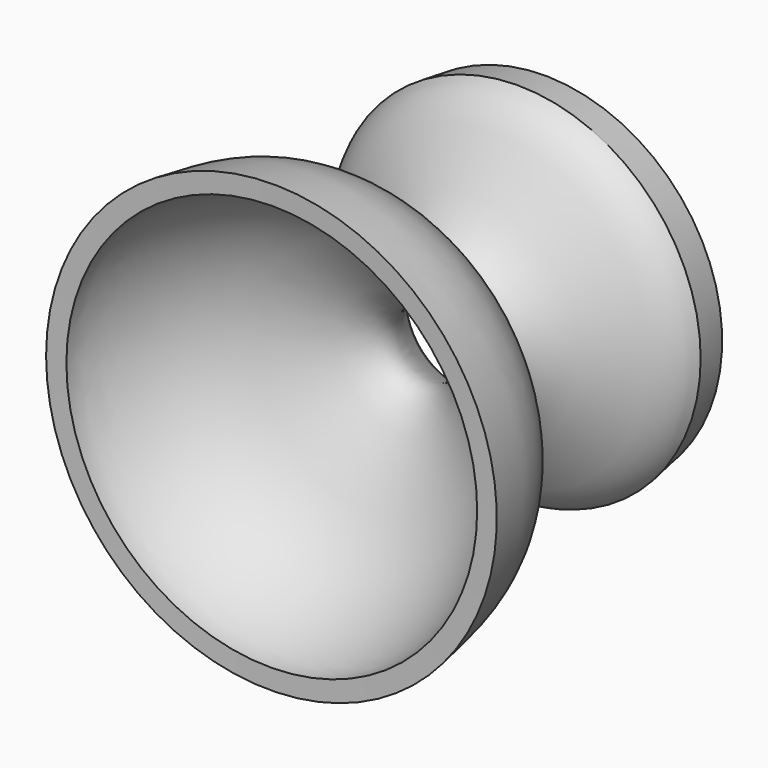
from build123d import *

# Parameters (mm, degrees)
F3_DEPTH      = 1
F3_DEPTH_BACK = 1


with BuildPart() as f1:
    # F0 (on Top) → F1 (revolve)
    with BuildSketch(Plane.XY):
        with BuildLine():
            Line((-28.2061389536, 13.0583277941), (-29.2061389536, 13.0583277941))
            Line((-29.2061389536, 13.0583277941), (-29.2061389536, 17.0583277941))
            Line((-29.2061389536, 17.0583277941), (-30.0259348005, 17.0583277941))
            Line((-30.0259348005, 17.0583277941), (-30.8159273118, 11.360803619))
            add(Edge.make_bspline(
                [(-30.8159273118, 11.360803619), (-30.3810533386, 10.1058438103), (-27.9059937695, 6.2639666949), (-16.1282197913, 1.0842383083), (-6.9000593404, -9.5095705718), (-35.9031692429, -21.0708061653), (-36.1315833958, -36.0233547762), (-37.0348617435, -41.0005152225)],
                knots=[0, 0, 0, 0, 0.1249772384, 0.3270539328, 0.4900317459, 0.7643770426, 1, 1, 1, 1], degree=3))
            Line((-37.0348617435, -41.0005152225), (-33.710875775, -40.8898448526))
            add(Edge.make_bspline(
                [(-9.2624910176, 0), (-8.1220865055, -1.9608888272), (0.1921393665, -11.3884353454), (-27.7795187486, -19.8839077874), (-33.8181633857, -37.6268399903), (-33.710875775, -40.8898448526)],
                knots=[0, 0, 0, 0, 0.2464721737, 0.6419219639, 1, 1, 1, 1], degree=3))
            add(Edge.make_bspline(
                [(-26.5814773738, 11.7608280852), (-25.2828707379, 7.5503954826), (-14.4364759326, 6.8059060723), (-9.2624910176, 0)],
                knots=[0, 0, 0, 0, 20.9347645236, 20.9347645236, 20.9347645236, 20.9347645236], degree=3))
            Line((-26.5814773738, 11.7608280852), (-27.8504227383, 17.0583277941))
            Line((-27.8504227383, 17.0583277941), (-28.2061389536, 17.0583277941))
            Line((-28.2061389536, 17.0583277941), (-28.2061389536, 13.0583277941))
        make_face()
    revolve(axis=Axis((-0.1030694768, 8.529163897, 0), (0.0120834765, -0.9999269921, 0)))

    # F2 (on Top) → F3 (join, two sides)
    with BuildSketch(Plane.XY) as f3_sk:
        Polygon((-14.7176125178, 0), (-27.740644291, 8.0033121631), (-27.740644291, -21.6357558966), (-9.0885590762, -7.349031046), align=None)
    extrude(amount=-F3_DEPTH)
    extrude(f3_sk.sketch, amount=F3_DEPTH_BACK)


solid = f1.part
